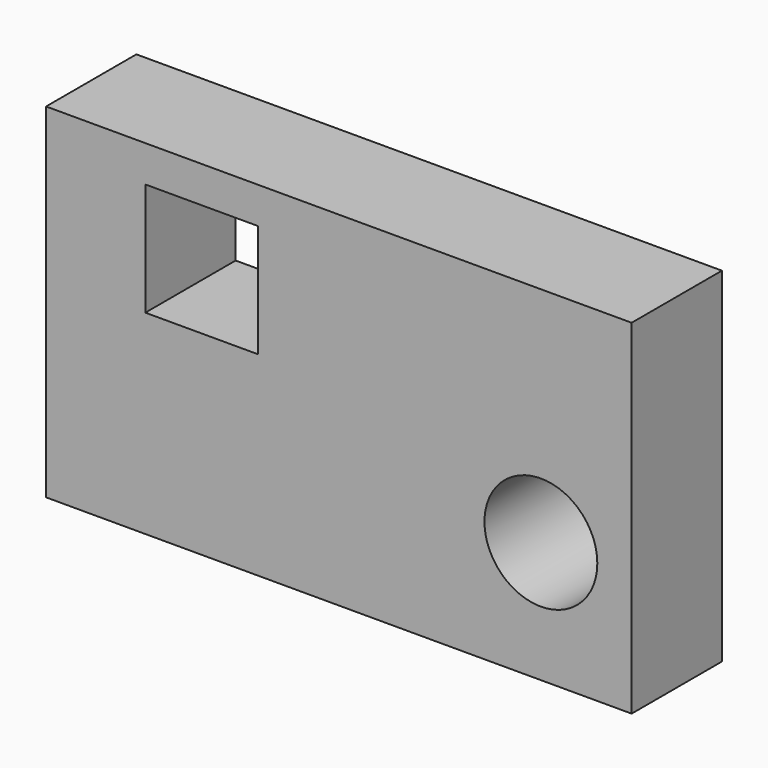
from build123d import *

# Parameters (mm, degrees)
F0_W     = 131.769553
F0_H     = 77.441782
F1_DEPTH = 25.4
F2_R     = 12.7
F3_DEPTH = 25.4
F4_W     = 25.4
F4_H     = 25.4
F5_DEPTH = 25.4


with BuildPart() as f1:
    # F0 (on Front) → F1 (new body)
    with BuildSketch(Plane.XZ):
        with Locations((10.569222, 0.197556)):
            Rectangle(F0_W, F0_H)
    extrude(amount=F1_DEPTH)

    # F2 (on Front) → F3 (cut)
    with BuildSketch(Plane.XZ):
        with Locations((56.035224, -11.260667)):
            Circle(F2_R)
    extrude(amount=F3_DEPTH, mode=Mode.SUBTRACT)

    # F4 (on face) → F5 (cut)
    with BuildSketch(Plane.XZ.offset(25.4)):
        with Locations((-20.277668, 18.034001)):
            Rectangle(F4_W, F4_H)
    extrude(amount=-F5_DEPTH, mode=Mode.SUBTRACT)


solid = f1.part
